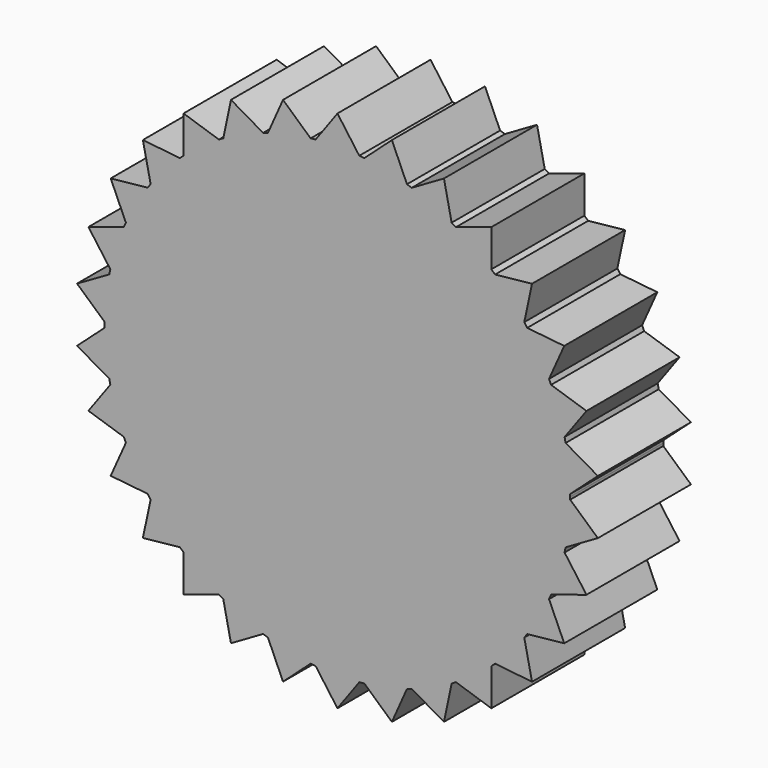
from build123d import *

# Parameters (mm, degrees)
F1_DEPTH = 12.7


with BuildPart() as f1:
    # F0 (on Front) → F1 (new body)
    with BuildSketch(Plane.XZ):
        with BuildLine():
            ThreePointArc((25.39852, -0.274206), (25.39963, -0.137105), (25.4, 0))
            ThreePointArc((25.4, 0), (25.39963, 0.137105), (25.39852, 0.274206))
            ThreePointArc((25.39852, 0.274206), (25.260856, 2.655023), (24.900512, 5.012436))
            ThreePointArc((24.900512, 5.012436), (24.844949, 5.280957), (24.786491, 5.548863))
            ThreePointArc((24.786491, 5.548863), (24.156836, 7.849032), (23.314232, 10.080009))
            ThreePointArc((23.314232, 10.080009), (23.204055, 10.331111), (23.091173, 10.581008))
            ThreePointArc((23.091173, 10.581008), (21.997045, 12.7), (20.709008, 14.707038))
            ThreePointArc((20.709008, 14.707038), (20.549032, 14.929745), (20.38666, 15.150713))
            ThreePointArc((20.38666, 15.150713), (18.875879, 16.995917), (17.198702, 18.691299))
            ThreePointArc((17.198702, 18.691299), (16.995917, 18.875879), (16.791152, 19.058258))
            ThreePointArc((16.791152, 19.058258), (14.929745, 20.549032), (12.936729, 21.858661))
            ThreePointArc((12.936729, 21.858661), (12.7, 21.997045), (12.461791, 22.132866))
            ThreePointArc((12.461791, 22.132866), (10.331111, 23.204055), (8.109359, 24.070694))
            ThreePointArc((8.109359, 24.070694), (7.849032, 24.156836), (7.587789, 24.240162))
            ThreePointArc((7.587789, 24.240162), (5.280957, 24.844949), (2.927572, 25.230722))
            ThreePointArc((2.927572, 25.230722), (2.655023, 25.260856), (2.382165, 25.288046))
            ThreePointArc((2.382165, 25.288046), (0, 25.4), (-2.382165, 25.288046))
            ThreePointArc((-2.382165, 25.288046), (-2.655023, 25.260856), (-2.927572, 25.230722))
            ThreePointArc((-2.927572, 25.230722), (-5.280957, 24.844949), (-7.587789, 24.240162))
            ThreePointArc((-7.587789, 24.240162), (-7.849032, 24.156836), (-8.109359, 24.070694))
            ThreePointArc((-8.109359, 24.070694), (-10.331111, 23.204055), (-12.461791, 22.132866))
            ThreePointArc((-12.461791, 22.132866), (-12.7, 21.997045), (-12.936729, 21.858661))
            ThreePointArc((-12.936729, 21.858661), (-14.929745, 20.549032), (-16.791152, 19.058258))
            ThreePointArc((-16.791152, 19.058258), (-16.995917, 18.875879), (-17.198702, 18.691299))
            ThreePointArc((-17.198702, 18.691299), (-18.875879, 16.995917), (-20.38666, 15.150713))
            ThreePointArc((-20.38666, 15.150713), (-20.549032, 14.929745), (-20.709008, 14.707038))
            ThreePointArc((-20.709008, 14.707038), (-21.997045, 12.7), (-23.091173, 10.581008))
            ThreePointArc((-23.091173, 10.581008), (-23.204055, 10.331111), (-23.314232, 10.080009))
            ThreePointArc((-23.314232, 10.080009), (-24.156836, 7.849032), (-24.786491, 5.548863))
            ThreePointArc((-24.786491, 5.548863), (-24.844949, 5.280957), (-24.900512, 5.012436))
            ThreePointArc((-24.900512, 5.012436), (-25.260856, 2.655023), (-25.39852, 0.274206))
            ThreePointArc((-25.39852, 0.274206), (-25.4, 0), (-25.39852, -0.274206))
            ThreePointArc((-25.39852, -0.274206), (-25.260856, -2.655023), (-24.900512, -5.012436))
            ThreePointArc((-24.900512, -5.012436), (-24.844949, -5.280957), (-24.786491, -5.548863))
            ThreePointArc((-24.786491, -5.548863), (-24.156836, -7.849032), (-23.314232, -10.080009))
            ThreePointArc((-23.314232, -10.080009), (-23.204055, -10.331111), (-23.091173, -10.581008))
            ThreePointArc((-23.091173, -10.581008), (-21.997045, -12.7), (-20.709008, -14.707038))
            ThreePointArc((-20.709008, -14.707038), (-20.549032, -14.929745), (-20.38666, -15.150713))
            ThreePointArc((-20.38666, -15.150713), (-18.875879, -16.995917), (-17.198702, -18.691299))
            ThreePointArc((-17.198702, -18.691299), (-16.995917, -18.875879), (-16.791152, -19.058258))
            ThreePointArc((-16.791152, -19.058258), (-14.929745, -20.549032), (-12.936729, -21.858661))
            ThreePointArc((-12.936729, -21.858661), (-12.7, -21.997045), (-12.461791, -22.132866))
            ThreePointArc((-12.461791, -22.132866), (-10.331111, -23.204055), (-8.109359, -24.070694))
            ThreePointArc((-8.109359, -24.070694), (-7.849032, -24.156836), (-7.587789, -24.240162))
            ThreePointArc((-7.587789, -24.240162), (-5.280957, -24.844949), (-2.927572, -25.230722))
            ThreePointArc((-2.927572, -25.230722), (-2.655023, -25.260856), (-2.382165, -25.288046))
            ThreePointArc((-2.382165, -25.288046), (0, -25.4), (2.382165, -25.288046))
            ThreePointArc((2.382165, -25.288046), (2.655023, -25.260856), (2.927572, -25.230722))
            ThreePointArc((2.927572, -25.230722), (5.280957, -24.844949), (7.587789, -24.240162))
            ThreePointArc((7.587789, -24.240162), (7.849032, -24.156836), (8.109359, -24.070694))
            ThreePointArc((8.109359, -24.070694), (10.331111, -23.204055), (12.461791, -22.132866))
            ThreePointArc((12.461791, -22.132866), (12.7, -21.997045), (12.936729, -21.858661))
            ThreePointArc((12.936729, -21.858661), (14.929745, -20.549032), (16.791152, -19.058258))
            ThreePointArc((16.791152, -19.058258), (16.995917, -18.875879), (17.198702, -18.691299))
            ThreePointArc((17.198702, -18.691299), (18.875879, -16.995917), (20.38666, -15.150713))
            ThreePointArc((20.38666, -15.150713), (20.549032, -14.929745), (20.709008, -14.707038))
            ThreePointArc((20.709008, -14.707038), (21.997045, -12.7), (23.091173, -10.581008))
            ThreePointArc((23.091173, -10.581008), (23.204055, -10.331111), (23.314232, -10.080009))
            ThreePointArc((23.314232, -10.080009), (24.156836, -7.849032), (24.786491, -5.548863))
            ThreePointArc((24.786491, -5.548863), (24.844949, -5.280957), (24.900512, -5.012436))
            ThreePointArc((24.900512, -5.012436), (25.260856, -2.655023), (25.39852, -0.274206))
        make_face()
        with BuildLine():
            ThreePointArc((-23.091173, 10.581008), (-21.997045, 12.7), (-20.709008, 14.707038))
            Line((-20.709008, 14.707038), (-24.746676, 14.2875))
            Line((-24.746676, 14.2875), (-23.091173, 10.581008))
        make_face()
        with BuildLine():
            ThreePointArc((-20.38666, 15.150713), (-18.875879, 16.995917), (-17.198702, 18.691299))
            Line((-17.198702, 18.691299), (-21.235363, 19.120407))
            Line((-21.235363, 19.120407), (-20.38666, 15.150713))
        make_face()
        with BuildLine():
            ThreePointArc((-16.791152, 19.058258), (-14.929745, 20.549032), (-12.936729, 21.858661))
            Line((-12.936729, 21.858661), (-16.795964, 23.117661))
            Line((-16.795964, 23.117661), (-16.791152, 19.058258))
        make_face()
        with BuildLine():
            ThreePointArc((-12.461791, 22.132866), (-10.331111, 23.204055), (-8.109359, 24.070694))
            Line((-8.109359, 24.070694), (-11.6225, 26.104561))
            Line((-11.6225, 26.104561), (-12.461791, 22.132866))
        make_face()
        with BuildLine():
            ThreePointArc((-7.587789, 24.240162), (-5.280957, 24.844949), (-2.927572, 25.230722))
            Line((-2.927572, 25.230722), (-5.941077, 27.950568))
            Line((-5.941077, 27.950568), (-7.587789, 24.240162))
        make_face()
        with BuildLine():
            ThreePointArc((-2.382165, 25.288046), (0, 25.4), (2.382165, 25.288046))
            Line((2.382165, 25.288046), (0, 28.575))
            Line((0, 28.575), (-2.382165, 25.288046))
        make_face()
        with BuildLine():
            ThreePointArc((2.927572, 25.230722), (5.280957, 24.844949), (7.587789, 24.240162))
            Line((7.587789, 24.240162), (5.941077, 27.950568))
            Line((5.941077, 27.950568), (2.927572, 25.230722))
        make_face()
        with BuildLine():
            ThreePointArc((8.109359, 24.070694), (10.331111, 23.204055), (12.461791, 22.132866))
            Line((12.461791, 22.132866), (11.6225, 26.104561))
            Line((11.6225, 26.104561), (8.109359, 24.070694))
        make_face()
        with BuildLine():
            ThreePointArc((12.936729, 21.858661), (14.929745, 20.549032), (16.791152, 19.058258))
            Line((16.791152, 19.058258), (16.795964, 23.117661))
            Line((16.795964, 23.117661), (12.936729, 21.858661))
        make_face()
        with BuildLine():
            ThreePointArc((17.198702, 18.691299), (18.875879, 16.995917), (20.38666, 15.150713))
            Line((20.38666, 15.150713), (21.235363, 19.120407))
            Line((21.235363, 19.120407), (17.198702, 18.691299))
        make_face()
        with BuildLine():
            ThreePointArc((20.709008, 14.707038), (21.997045, 12.7), (23.091173, 10.581008))
            Line((23.091173, 10.581008), (24.746676, 14.2875))
            Line((24.746676, 14.2875), (20.709008, 14.707038))
        make_face()
        with BuildLine():
            ThreePointArc((23.314232, 10.080009), (24.156836, 7.849032), (24.786491, 5.548863))
            Line((24.786491, 5.548863), (27.17644, 8.830161))
            Line((27.17644, 8.830161), (23.314232, 10.080009))
        make_face()
        with BuildLine():
            ThreePointArc((24.900512, 5.012436), (25.260856, 2.655023), (25.39852, 0.274206))
            Line((25.39852, 0.274206), (28.418463, 2.986901))
            Line((28.418463, 2.986901), (24.900512, 5.012436))
        make_face()
        with BuildLine():
            Line((28.418463, -2.986901), (25.39852, -0.274206))
            ThreePointArc((25.39852, -0.274206), (25.260856, -2.655023), (24.900512, -5.012436))
            Line((24.900512, -5.012436), (28.418463, -2.986901))
        make_face()
        with BuildLine():
            Line((27.17644, -8.830161), (24.786491, -5.548863))
            ThreePointArc((24.786491, -5.548863), (24.156836, -7.849032), (23.314232, -10.080009))
            Line((23.314232, -10.080009), (27.17644, -8.830161))
        make_face()
        with BuildLine():
            Line((24.746676, -14.2875), (23.091173, -10.581008))
            ThreePointArc((23.091173, -10.581008), (21.997045, -12.7), (20.709008, -14.707038))
            Line((20.709008, -14.707038), (24.746676, -14.2875))
        make_face()
        with BuildLine():
            Line((21.235363, -19.120407), (20.38666, -15.150713))
            ThreePointArc((20.38666, -15.150713), (18.875879, -16.995917), (17.198702, -18.691299))
            Line((17.198702, -18.691299), (21.235363, -19.120407))
        make_face()
        with BuildLine():
            Line((16.795964, -23.117661), (16.791152, -19.058258))
            ThreePointArc((16.791152, -19.058258), (14.929745, -20.549032), (12.936729, -21.858661))
            Line((12.936729, -21.858661), (16.795964, -23.117661))
        make_face()
        with BuildLine():
            Line((11.6225, -26.104561), (12.461791, -22.132866))
            ThreePointArc((12.461791, -22.132866), (10.331111, -23.204055), (8.109359, -24.070694))
            Line((8.109359, -24.070694), (11.6225, -26.104561))
        make_face()
        with BuildLine():
            Line((5.941077, -27.950568), (7.587789, -24.240162))
            ThreePointArc((7.587789, -24.240162), (5.280957, -24.844949), (2.927572, -25.230722))
            Line((2.927572, -25.230722), (5.941077, -27.950568))
        make_face()
        with BuildLine():
            Line((0, -28.575), (2.382165, -25.288046))
            ThreePointArc((2.382165, -25.288046), (0, -25.4), (-2.382165, -25.288046))
            Line((-2.382165, -25.288046), (0, -28.575))
        make_face()
        with BuildLine():
            Line((-5.941077, -27.950568), (-2.927572, -25.230722))
            ThreePointArc((-2.927572, -25.230722), (-5.280957, -24.844949), (-7.587789, -24.240162))
            Line((-7.587789, -24.240162), (-5.941077, -27.950568))
        make_face()
        with BuildLine():
            Line((-11.6225, -26.104561), (-8.109359, -24.070694))
            ThreePointArc((-8.109359, -24.070694), (-10.331111, -23.204055), (-12.461791, -22.132866))
            Line((-12.461791, -22.132866), (-11.6225, -26.104561))
        make_face()
        with BuildLine():
            Line((-16.795964, -23.117661), (-12.936729, -21.858661))
            ThreePointArc((-12.936729, -21.858661), (-14.929745, -20.549032), (-16.791152, -19.058258))
            Line((-16.791152, -19.058258), (-16.795964, -23.117661))
        make_face()
        with BuildLine():
            Line((-21.235363, -19.120407), (-17.198702, -18.691299))
            ThreePointArc((-17.198702, -18.691299), (-18.875879, -16.995917), (-20.38666, -15.150713))
            Line((-20.38666, -15.150713), (-21.235363, -19.120407))
        make_face()
        with BuildLine():
            Line((-24.746676, -14.2875), (-20.709008, -14.707038))
            ThreePointArc((-20.709008, -14.707038), (-21.997045, -12.7), (-23.091173, -10.581008))
            Line((-23.091173, -10.581008), (-24.746676, -14.2875))
        make_face()
        with BuildLine():
            Line((-27.17644, -8.830161), (-23.314232, -10.080009))
            ThreePointArc((-23.314232, -10.080009), (-24.156836, -7.849032), (-24.786491, -5.548863))
            Line((-24.786491, -5.548863), (-27.17644, -8.830161))
        make_face()
        with BuildLine():
            Line((-28.418463, -2.986901), (-24.900512, -5.012436))
            ThreePointArc((-24.900512, -5.012436), (-25.260856, -2.655023), (-25.39852, -0.274206))
            Line((-25.39852, -0.274206), (-28.418463, -2.986901))
        make_face()
        with BuildLine():
            ThreePointArc((-25.39852, 0.274206), (-25.260856, 2.655023), (-24.900512, 5.012436))
            Line((-24.900512, 5.012436), (-28.418463, 2.986901))
            Line((-28.418463, 2.986901), (-25.39852, 0.274206))
        make_face()
        with BuildLine():
            ThreePointArc((-24.786491, 5.548863), (-24.156836, 7.849032), (-23.314232, 10.080009))
            Line((-23.314232, 10.080009), (-27.17644, 8.830161))
            Line((-27.17644, 8.830161), (-24.786491, 5.548863))
        make_face()
    extrude(amount=F1_DEPTH)


solid = f1.part
